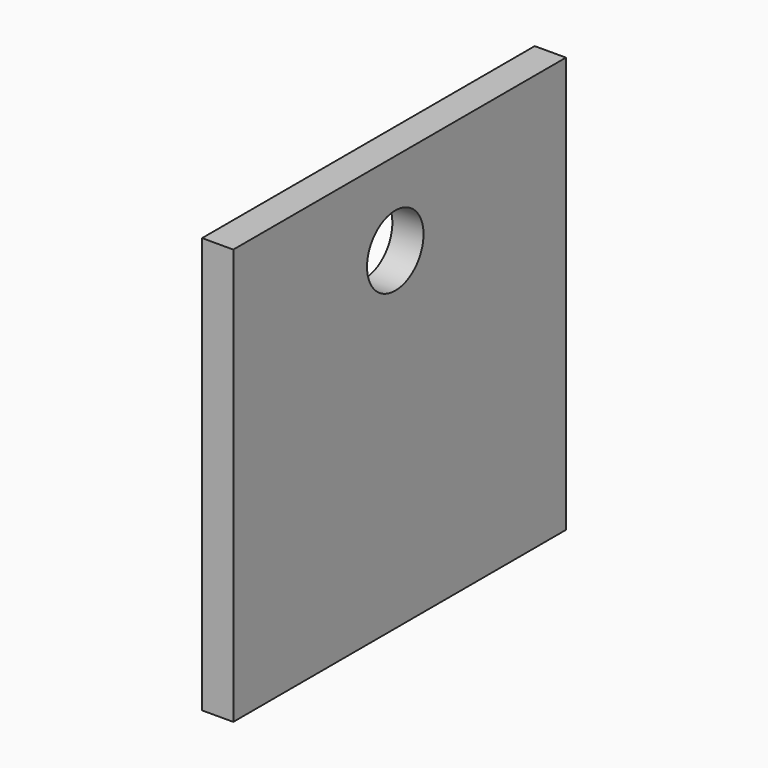
from build123d import *

# Parameters (mm, degrees)
CYLINDER033_R     = 1.7
CYLINDER033_DEPTH = 20
BOX045_W          = 1.5
BOX045_H          = 20
BOX045_DEPTH      = 20


with BuildPart() as cylinder033:
    # Cylinder033 → Cylinder033 (new body)
    with BuildSketch(Plane(origin=(254, 19.74, 51.5), x_dir=(0, 0, -1), z_dir=(1, 0, 0))):
        Circle(CYLINDER033_R)
    extrude(amount=CYLINDER033_DEPTH)


with BuildPart() as testside_wall:
    # Box045 → Box045 (new body)
    with BuildSketch(Plane(origin=(254, 10, 35.5), x_dir=(1, 0, 0), z_dir=(0, 0, 1))):
        with Locations((0.75, 10)):
            Rectangle(BOX045_W, BOX045_H)
    extrude(amount=BOX045_DEPTH)

    # Cut054: cut Cylinder033
    add(cylinder033.part, mode=Mode.SUBTRACT)


solid = testside_wall.part
